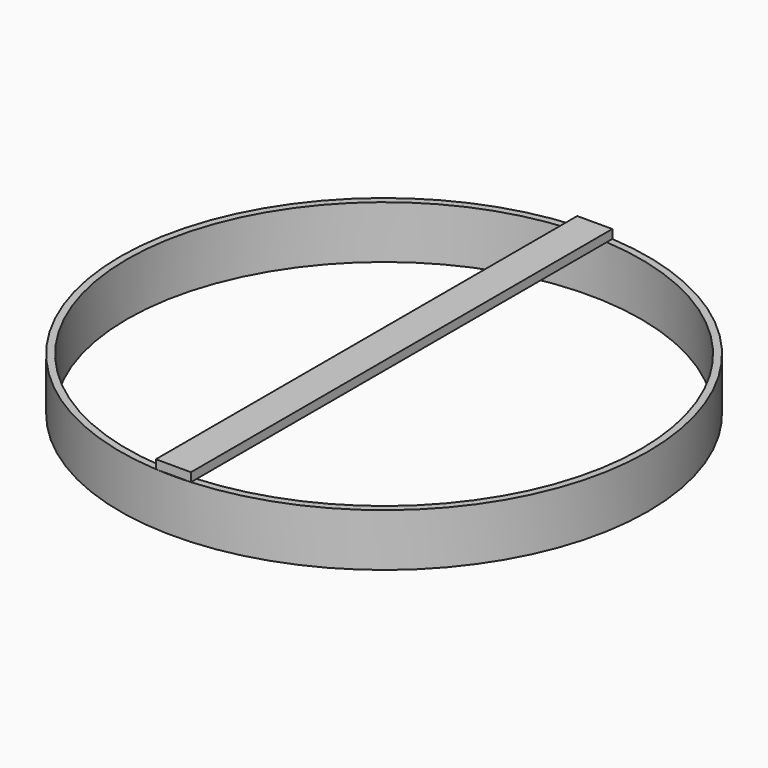
from build123d import *

# Parameters (mm, degrees)
F0_W     = 25.4
F0_H     = 381
F1_DEPTH = 6.35
F2_R     = 190.922864
F2_R_2   = 185.842864
F3_DEPTH = 38.1


with BuildPart() as f1:
    # F0 (on Top) → F1 (new body)
    with BuildSketch(Plane.XY):
        Rectangle(F0_W, F0_H)
    extrude(amount=F1_DEPTH)

    # F2 (on face) → F3 (join)
    with BuildSketch(Plane(origin=(0, 0, 0), x_dir=(1, 0, 0), z_dir=(0, 0, -1))):
        Circle(F2_R)
        Circle(F2_R_2, mode=Mode.SUBTRACT)
    extrude(amount=F3_DEPTH)


solid = f1.part
